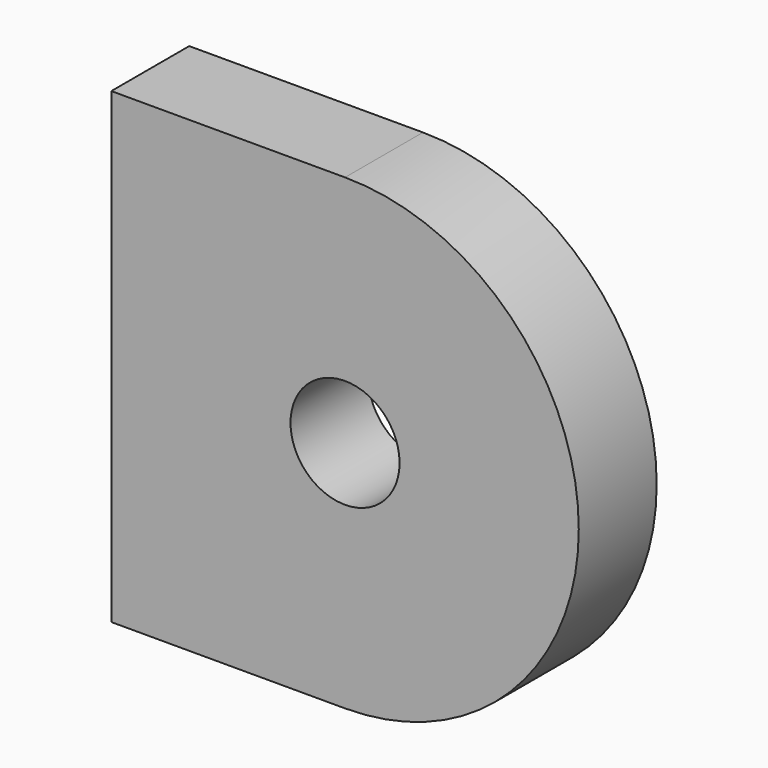
from build123d import *

# Parameters (mm, degrees)
F0_R     = 1.778
F1_DEPTH = 3.175


with BuildPart() as f1:
    # F0 (on Front) → F1 (new body)
    with BuildSketch(Plane.XZ):
        with BuildLine():
            Line((11.43, -11.43), (19.05, -11.43))
            ThreePointArc((19.05, -11.43), (26.67, -3.81), (19.05, 3.81))
            Line((19.05, 3.81), (11.43, 3.81))
            Line((11.43, 3.81), (11.43, -3.81))
            Line((11.43, -3.81), (11.43, -11.43))
        make_face()
        with Locations((19.05, -3.81)):
            Circle(F0_R, mode=Mode.SUBTRACT)
    extrude(amount=F1_DEPTH)


solid = f1.part
